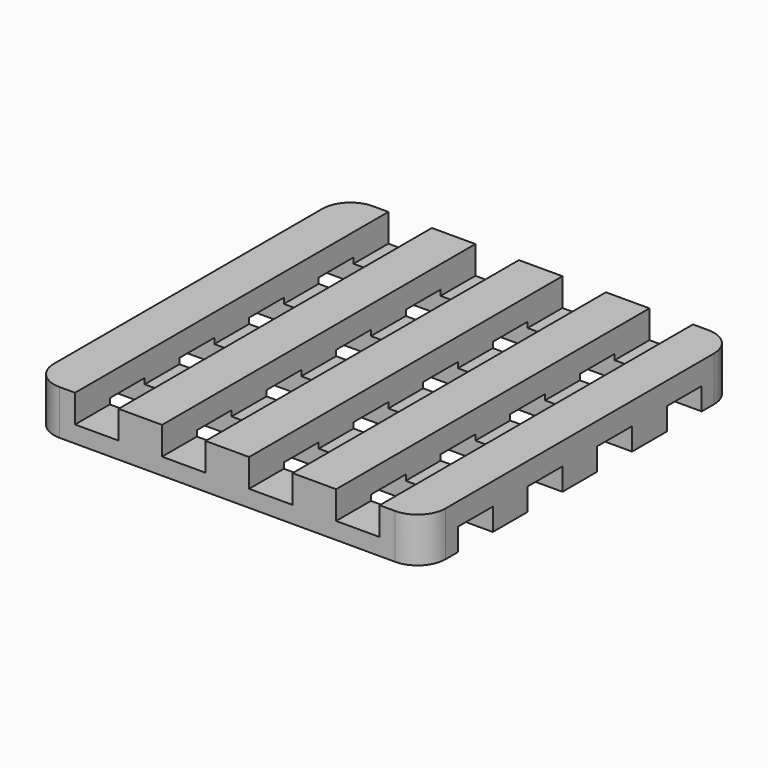
from build123d import *

# Parameters (mm, degrees)
F0_W     = 88.9
F0_H     = 10.16
F1_DEPTH = 88.9
F2_R     = 6.35
F3_W     = 9.877778
F3_H     = 6.35
F4_DEPTH = 88.901
F5_W     = 9.877778
F5_H     = 5.08
F6_DEPTH = 88.901


with BuildPart() as f1:
    # F0 (on Front) → F1 (new body)
    with BuildSketch(Plane.XZ):
        Rectangle(F0_W, F0_H)
    extrude(amount=F1_DEPTH)

    # F2
    f2_edges = [f1.edges().sort_by_distance(p)[0] for p in [
        (-44.45, -88.9, 0),
        (44.45, -88.9, 0),
        (44.45, 0, 0),
        (-44.45, 0, 0),
    ]]
    fillet(f2_edges, radius=F2_R)

    # F3 (on face) → F4 (cut, through all)
    with BuildSketch(Plane.XZ.offset(88.9)):
        with Locations((-29.633333, 1.905)):
            Rectangle(F3_W, F3_H)
        with Locations((-9.877778, 1.905)):
            Rectangle(F3_W, F3_H)
        with Locations((9.877778, 1.905)):
            Rectangle(F3_W, F3_H)
        with Locations((29.633333, 1.905)):
            Rectangle(F3_W, F3_H)
    extrude(amount=-F4_DEPTH, mode=Mode.SUBTRACT)

    # F5 (on face) → F6 (cut, through all)
    with BuildSketch(Plane.YZ.offset(44.45)):
        with Locations((-14.816667, -2.54)):
            Rectangle(F5_W, F5_H)
        with Locations((-34.572222, -2.54)):
            Rectangle(F5_W, F5_H)
        with Locations((-54.327778, -2.54)):
            Rectangle(F5_W, F5_H)
        with Locations((-74.083333, -2.54)):
            Rectangle(F5_W, F5_H)
    extrude(amount=-F6_DEPTH, mode=Mode.SUBTRACT)


solid = f1.part
